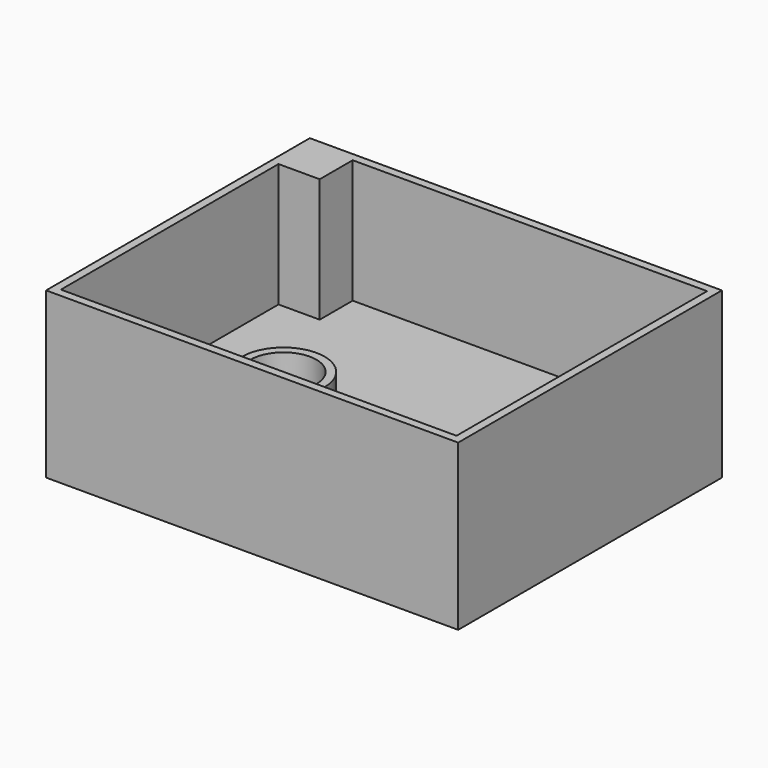
from build123d import *

# Parameters (mm, degrees)
F0_W     = 50
F0_H     = 40
F1_DEPTH = 20
F2_W     = 48
F2_H     = 38
F3_DEPTH = 15
F4_W     = 5
F4_H     = 5
F5_DEPTH = 15
F6_R     = 5
F6_R_2   = 4
F7_DEPTH = 5


with BuildPart() as f1:
    # F0 (on Top) → F1 (new body)
    with BuildSketch(Plane.XY):
        Rectangle(F0_W, F0_H)
    extrude(amount=F1_DEPTH)

    # F2 (on face) → F3 (cut)
    with BuildSketch(Plane.XY.offset(20)):
        Rectangle(F2_W, F2_H)
    extrude(amount=-F3_DEPTH, mode=Mode.SUBTRACT)

    # F4 (on face) → F5 (join)
    with BuildSketch(Plane.XY.offset(5)):
        with Locations((-21.5, 16.5)):
            Rectangle(F4_W, F4_H)
    extrude(amount=F5_DEPTH)

    # F6 (on face) → F7 (join)
    with BuildSketch(Plane.XY.offset(5)):
        with Locations((-9, -4)):
            Circle(F6_R)
        with Locations((-9, -4)):
            Circle(F6_R_2, mode=Mode.SUBTRACT)
    extrude(amount=F7_DEPTH)


solid = f1.part
